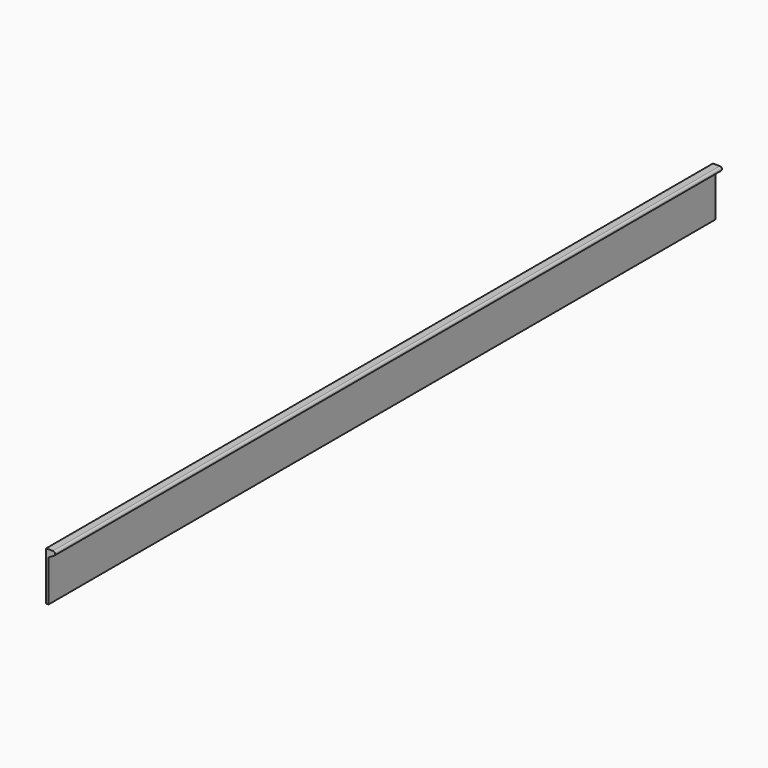
from build123d import *

# Parameters (mm, degrees)
F1_DEPTH = 2400


with BuildPart() as f1:
    # F0 (on Front) → F1 (new body)
    with BuildSketch(Plane.XZ):
        with BuildLine():
            Line((0, 140), (0, 0))
            Line((0, 0), (7, 0))
            Line((7, 0), (7, 116.679492))
            ThreePointArc((7, 116.679492), (7.669873, 119.179492), (9.5, 121.009619))
            Line((9.5, 121.009619), (23, 128.803848))
            ThreePointArc((23, 128.803848), (25.795555, 135.552914), (20, 140))
            Line((20, 140), (0, 140))
        make_face()
    extrude(amount=F1_DEPTH)


solid = f1.part
